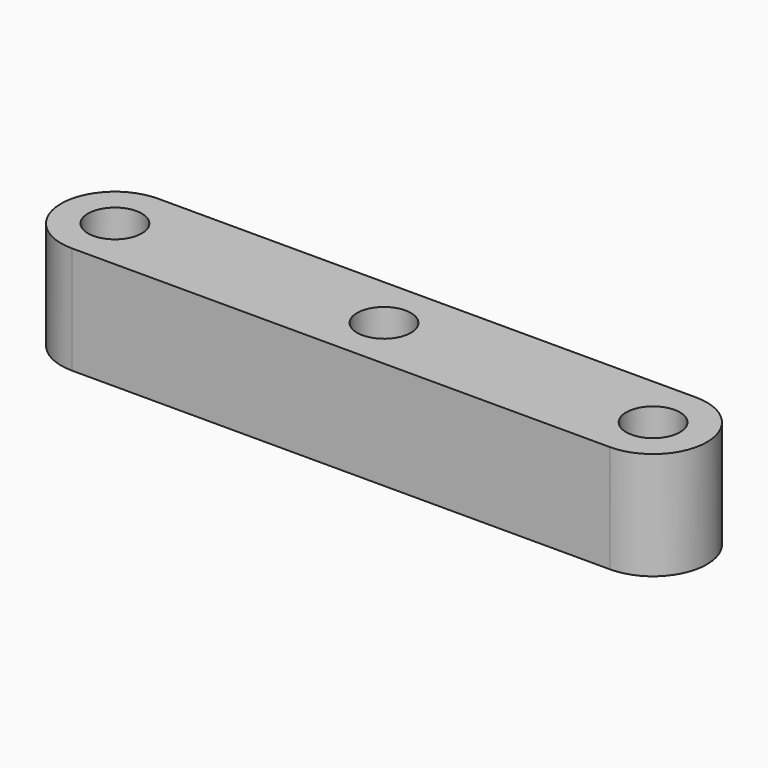
from build123d import *

# Parameters (mm, degrees)
F0_R     = 5
F1_DEPTH = 10


with BuildPart() as f1:
    # F0 (on Top) → F1 (new body, symmetric)
    with BuildSketch(Plane.XY):
        with BuildLine():
            Line((50, 10), (-50, 10))
            ThreePointArc((-50, 10), (-60, 0), (-50, -10))
            Line((-50, -10), (50, -10))
            ThreePointArc((50, -10), (60, 0), (50, 10))
        make_face()
        with Locations((-50, 0)):
            Circle(F0_R, mode=Mode.SUBTRACT)
        Circle(F0_R, mode=Mode.SUBTRACT)
        with Locations((50, 0)):
            Circle(F0_R, mode=Mode.SUBTRACT)
    extrude(amount=F1_DEPTH, both=True)


solid = f1.part
